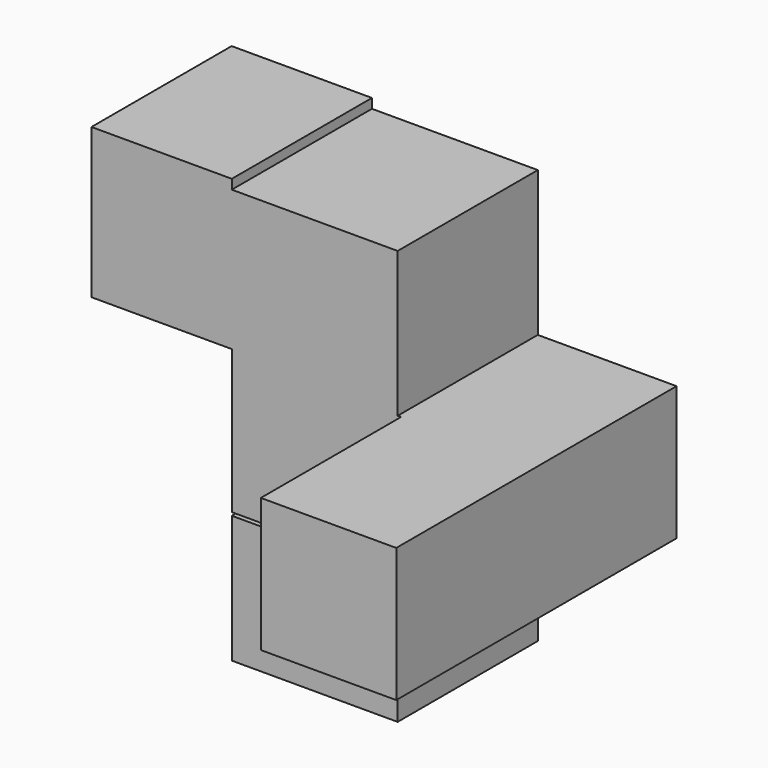
from build123d import *

# Parameters (mm, degrees)
F0_W     = 48.0955578387
F0_H     = 40.696233511
F0_W_2   = 40.2337741107
F0_H_2   = 38.8464033604
F0_W_3   = 0.4624519497
F1_DEPTH = 50.8
F0_H_3   = 36.9965806603
F2_W     = 39.2677858472
F2_H     = 38.8464033604
F3_DEPTH = 50.8


with BuildPart() as f1:
    # F0 (on Front) → F1 (new body)
    with BuildSketch(Plane.XZ):
        with Locations((0, 41.1586947739)):
            Rectangle(F0_W, F0_H)
        Polygon((24.0477789193, 20.8105780184), (-24.0477789193, 20.8105780184), (-24.0477789193, -20.8105780184), (24.0477789193, -20.8105780184), (24.0477789193, -19.4232016802), (23.5853269696, -19.4232016802), (23.5853269696, 19.4232016802), (24.0477789193, 19.4232016802), align=None)
        Polygon((-64.7440161556, 20.8105780184), (-24.0477789193, 20.8105780184), (-24.0477789193, 61.5068115294), (-24.0477789193, 64.2815642059), (-64.7440161556, 64.2815642059), align=None)
        with Locations((44.1646659747, 0)):
            Rectangle(F0_W_2, F0_H_2)
        with Locations((23.8165529445, 0)):
            Rectangle(F0_W_3, F0_H_2)
    extrude(amount=F1_DEPTH)

    # F2 (on face) → F3 (join)
    with BuildSketch(Plane.XZ.offset(50.8)):
        with Locations((44.6476601064, 0)):
            Rectangle(F2_W, F2_H)
    extrude(amount=F3_DEPTH)


with BuildPart() as f1b:
    # F0 (on Front) → F1, piece 2 (new body)
    with BuildSketch(Plane.XZ):
        with Locations((0, -40.2337759733)):
            Rectangle(F0_W, F0_H_3)
    extrude(amount=F1_DEPTH)


solid = Compound([f1.part, f1b.part])
